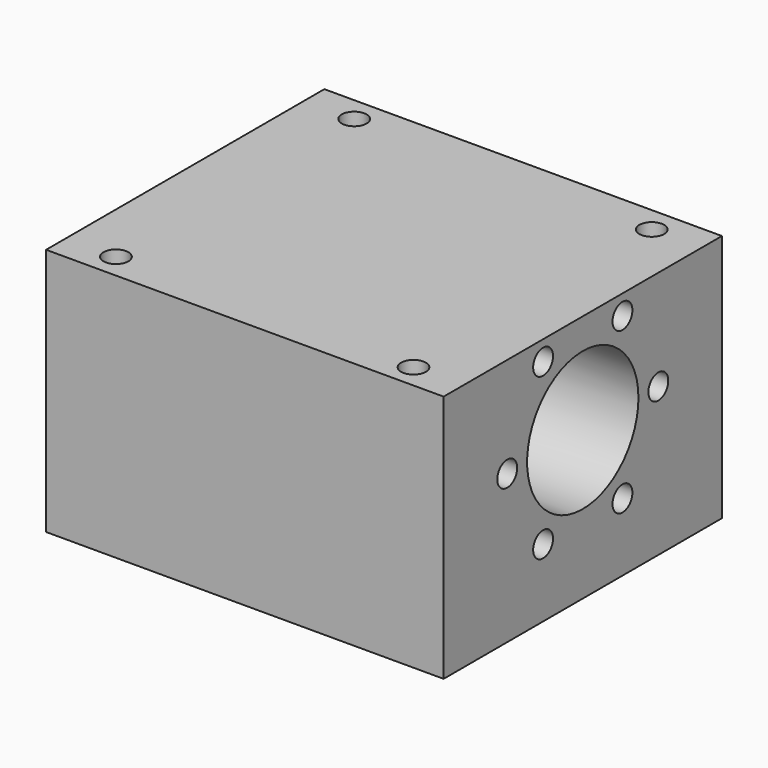
from build123d import *

# Parameters (mm, degrees)
F0_W     = 80
F0_H     = 70
F1_DEPTH = 50
F2_R     = 2.5
F3_DEPTH = 15
F4_R     = 8.5
F5_DEPTH = 92.7
F4_R_2   = 14
F6_DEPTH = 35
F4_R_3   = 2.5
F7_DEPTH = 20


with BuildPart() as f1:
    # F0 (on Top) → F1 (new body)
    with BuildSketch(Plane.XY):
        with Locations((1.460786, 3.671486)):
            Rectangle(F0_W, F0_H)
    extrude(amount=F1_DEPTH)

    # F2 (on face) → F3 (cut)
    with BuildSketch(Plane.XY.offset(50)):
        with Locations((-28.539214, 33.671486)):
            Circle(F2_R)
        with Locations((-28.481222, -26.328486)):
            Circle(F2_R)
        with Locations((31.460602, 33.522883)):
            Circle(F2_R)
        with Locations((31.518594, -26.477089)):
            Circle(F2_R)
    extrude(amount=-F3_DEPTH, mode=Mode.SUBTRACT)

    # F4 (on face) → F5 (cut)
    with BuildSketch(Plane.YZ.offset(41.460786)):
        with Locations((3.671486, 29.85)):
            Circle(F4_R)
    extrude(amount=-F5_DEPTH, mode=Mode.SUBTRACT)

    # F4 (on face) → F6 (cut)
    with BuildSketch(Plane.YZ.offset(41.460786)):
        with Locations((3.671486, 29.85)):
            Circle(F4_R_2)
        with Locations((3.671486, 29.85)):
            Circle(F4_R, mode=Mode.SUBTRACT)
    extrude(amount=-F6_DEPTH, mode=Mode.SUBTRACT)

    # F4 (on face) → F7 (cut)
    with BuildSketch(Plane.YZ.offset(41.460786)):
        with Locations((-6.309632, 46.017167)):
            Circle(F4_R_3)
        with Locations((-15.328514, 29.85)):
            Circle(F4_R_3)
        with Locations((-6.309632, 13.682833)):
            Circle(F4_R_3)
        with Locations((13.652604, 13.682833)):
            Circle(F4_R_3)
        with Locations((22.671486, 29.85)):
            Circle(F4_R_3)
        with Locations((13.652604, 46.017167)):
            Circle(F4_R_3)
    extrude(amount=-F7_DEPTH, mode=Mode.SUBTRACT)


solid = f1.part
